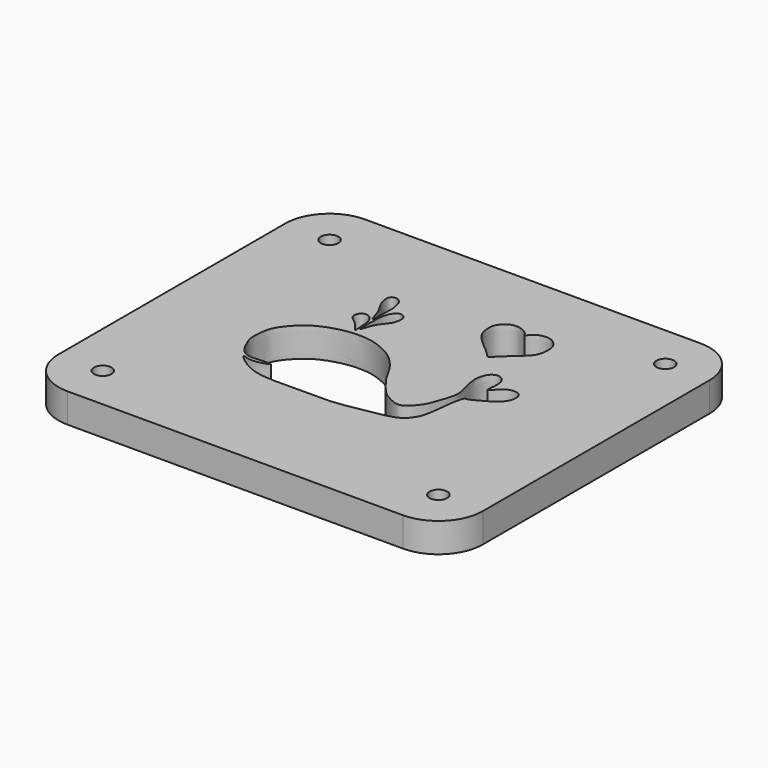
from build123d import *

# Parameters (mm, degrees)
F0_R     = 1.5
F1_DEPTH = 5


with BuildPart() as f1:
    # F0 (on Top) → F1 (new body)
    with BuildSketch(Plane.XY):
        with BuildLine():
            ThreePointArc((36.115, 24.13), (33.9065851301, 29.4615851301), (28.575, 31.67))
            Line((28.575, 31.67), (-28.575, 31.67))
            ThreePointArc((-28.575, 31.67), (-33.9065851301, 29.4615851301), (-36.115, 24.13))
            Line((-36.115, 24.13), (-36.115, -24.13))
            ThreePointArc((-36.115, -24.13), (-33.9065851301, -29.4615851301), (-28.575, -31.67))
            Line((-28.575, -31.67), (28.575, -31.67))
            ThreePointArc((28.575, -31.67), (33.9065851301, -29.4615851301), (36.115, -24.13))
            Line((36.115, -24.13), (36.115, 24.13))
        make_face()
        with Locations((-28.575, -24.13)):
            Circle(F0_R, mode=Mode.SUBTRACT)
        with Locations((28.575, -24.13)):
            Circle(F0_R, mode=Mode.SUBTRACT)
        with BuildLine():
            add(Edge.make_bspline(
                [(14.8205645382, 3.4964636434), (15.0111235326, 3.4954925386), (16.2022852329, 5.1234824061), (17.4929807562, 5.4950806784), (18.8454166411, 5.3991958096), (19.4432393697, 4.0628795348), (18.7302741407, 1.8277842362), (15.0725032017, 0.0139814857), (14.433491278, -0.2818551042), (13.8496444002, -0.2919203854), (13.6970136266, -1.234536682), (13.4721448563, -1.9729645811), (13.2528219301, -4.1356126261), (12.8449783803, -7.6405033691), (12.0283884116, -8.7745043473), (11.3607199065, -9.8313232539), (9.3132059602, -10.6631426145), (7.2629087769, -10.978857608), (3.962633491, -11.587081634), (0.8574678298, -12.1279307424), (-1.8732434409, -12.0626781489), (-8.2829883349, -12.1760061513), (-11.1727004159, -12.0509902479), (-14.092150809, -11.354767563), (-16.5109241135, -9.4170552917), (-16.6608797689, -8.9773292774), (-15.7789779675, -9.3950733004), (-13.9748145874, -9.4765620603), (-11.2224494684, -8.3437994176), (-15.2091286436, -8.8818514931), (-17.3606989941, -8.5184799906), (-18.5408191776, -6.1491245802), (-18.7252219763, -5.5382057916), (-19.1912194122, -4.7186481843), (-19.0753272637, -2.4145456179), (-18.7483976689, -0.2904011246), (-16.480082031, 2.4008557232), (-14.1813943941, 3.9990388199), (-10.7758382761, 5.061925323), (-8.1793450388, 5.2043812834), (-5.9200014754, 5.0363364679), (-2.845013492, 3.8403794863), (-1.1376139091, 2.511543266), (0.0229243331, 1.2685330016), (1.0172272338, -0.0278395795), (2.0638625095, -2.2917524529), (4.4719673466, -5.3183439354), (5.573615151, -6.1753612295), (6.8587014309, -6.8672720891), (8.9015967774, -7.6903642072), (11.177977526, -4.5250533014), (11.4282806938, -3.3922952148), (12.7398857924, -0.2194887196), (12.1255659294, 1.8676864261), (11.434164511, 4.711060184), (11.7469673948, 6.05083066), (12.1804849503, 7.1588939197), (13.3709311078, 7.8484055197), (14.7087415878, 7.007783825), (14.9613302433, 5.483157465), (14.754216132, 4.0539006895), (14.7312464116, 3.4969188161), (14.8205645382, 3.4964636434)],
                knots=[0, 0, 0, 0, 0.016595699, 0.0312336424, 0.044092737, 0.0571227007, 0.0748963611, 0.0986905803, 0.1087276408, 0.1166244596, 0.1274361145, 0.1380209061, 0.155687944, 0.178306376, 0.1921470589, 0.2050281955, 0.2222762946, 0.2398187555, 0.2617450805, 0.2826890318, 0.3029021619, 0.3329739902, 0.3536851666, 0.3746646644, 0.3952211413, 0.4003908227, 0.4102071632, 0.4278106772, 0.4429309125, 0.4622190267, 0.4809237909, 0.499212247, 0.5087529006, 0.5197232088, 0.5375651588, 0.555351305, 0.5772000482, 0.5975313021, 0.6198876769, 0.6390588799, 0.6570375813, 0.6786153914, 0.6963001786, 0.7115935185, 0.726516058, 0.7457537239, 0.7692057256, 0.7832777559, 0.7974790049, 0.8138178784, 0.8357832478, 0.8498267135, 0.8709781241, 0.8891304606, 0.9092409495, 0.9231558628, 0.9358549421, 0.9488487694, 0.9626109641, 0.9772816508, 0.9922213237, 1, 1, 1, 1], degree=3))
        make_face(mode=Mode.SUBTRACT)
        with BuildLine():
            add(Edge.make_bspline(
                [(-9.6821160987, 6.001860369), (-9.604998335, 6.0975070245), (-9.7883742017, 7.8286357661), (-9.7934093579, 9.0059788498), (-10.3811981936, 9.9943093776), (-11.0577702569, 10.5302823139), (-12.3069993864, 10.3434165346), (-12.7082559518, 8.6036613658), (-11.032262301, 7.8340038341), (-9.9064782703, 6.2336741984), (-9.7088125176, 5.9687496685), (-9.6821160987, 6.001860369)],
                knots=[0, 0, 0, 0, 0.1320771199, 0.253507494, 0.3584119224, 0.4509166382, 0.5557618567, 0.6737247942, 0.8092804208, 0.9542778999, 1, 1, 1, 1], degree=3))
        make_face(mode=Mode.SUBTRACT)
        with BuildLine():
            add(Edge.make_bspline(
                [(-9.8300473765, 9.8925717175), (-9.6569855607, 9.9610462297), (-9.7249916075, 13.0410261844), (-9.590953721, 13.9987928756), (-10.0372934483, 16.0675615383), (-11.0979644824, 16.6984138925), (-12.1809479897, 16.3942575696), (-12.1072004593, 14.637096776), (-11.1945255983, 13.0181051393), (-10.5115665267, 11.939892257), (-9.9706310292, 9.8369476794), (-9.8300473765, 9.8925717175)],
                knots=[0, 0, 0, 0, 0.1476252875, 0.2513335617, 0.371367217, 0.4635241291, 0.5433259, 0.6512487196, 0.7692655123, 0.8800792534, 1, 1, 1, 1], degree=3))
        make_face(mode=Mode.SUBTRACT)
        with BuildLine():
            add(Edge.make_bspline(
                [(-9.366473183, 6.5482151695), (-9.2691057213, 6.4786818417), (-8.8740022714, 8.5585237019), (-7.3876597588, 10.2805431453), (-6.9333663047, 11.0005995705), (-6.6863506201, 12.4849851642), (-7.2214143147, 13.321922876), (-8.4598957794, 13.4464866482), (-9.3099623647, 11.778294454), (-9.4584603184, 10.23534356), (-9.4999171008, 6.6435118887), (-9.366473183, 6.5482151695)],
                knots=[0, 0, 0, 0, 0.1164392685, 0.2544783245, 0.3350305307, 0.4382223065, 0.5203680811, 0.6066109681, 0.7153132513, 0.8404178162, 1, 1, 1, 1], degree=3))
        make_face(mode=Mode.SUBTRACT)
        with Locations((-28.575, 24.13)):
            Circle(F0_R, mode=Mode.SUBTRACT)
        with BuildLine():
            add(Edge.make_bspline(
                [(8.9178020135, 11.0080474988), (9.2815538087, 11.1216169245), (11.2919270904, 13.3551696916), (13.1766329055, 14.7159798615), (13.9427686162, 16.2001562568), (14.0023176424, 17.8776490186), (13.8060222991, 18.7144557366), (13.194071778, 19.6566511671), (12.1318953794, 20.3032252502), (11.0098855208, 20.282536056), (10.0865873997, 20.0552112237), (9.1839710135, 19.3486743313), (8.8797514307, 18.5818526113), (8.7048930989, 19.2013294845), (7.8908795449, 19.9060252028), (6.8814677359, 20.2276846931), (6.2042964155, 20.2707536949), (5.3880727689, 20.1522750844), (4.5688497642, 19.5263530225), (4.0880238333, 18.9189639401), (3.7335482814, 18.1317830992), (3.7943559956, 16.8028615938), (4.0615251109, 15.7911295604), (4.6630570437, 14.8028411196), (6.1972144589, 13.3137491584), (7.2276340164, 12.5787256526), (8.6412742341, 11.207519803), (8.8041460584, 10.9725621989), (8.9178020135, 11.0080474988)],
                knots=[0, 0, 0, 0, 0.0634973548, 0.1215777193, 0.1665602077, 0.2122253629, 0.2454301014, 0.2826587659, 0.3222391026, 0.3595918678, 0.3946377203, 0.4338477284, 0.4604544453, 0.4824055827, 0.5203842557, 0.5574016943, 0.5867291321, 0.618828099, 0.6550037653, 0.6864874889, 0.7193381299, 0.7604972475, 0.7969868553, 0.8356298186, 0.8872873689, 0.9307484459, 0.9801599536, 1, 1, 1, 1], degree=3))
        make_face(mode=Mode.SUBTRACT)
        with Locations((28.575, 24.13)):
            Circle(F0_R, mode=Mode.SUBTRACT)
    extrude(amount=F1_DEPTH)


solid = f1.part
